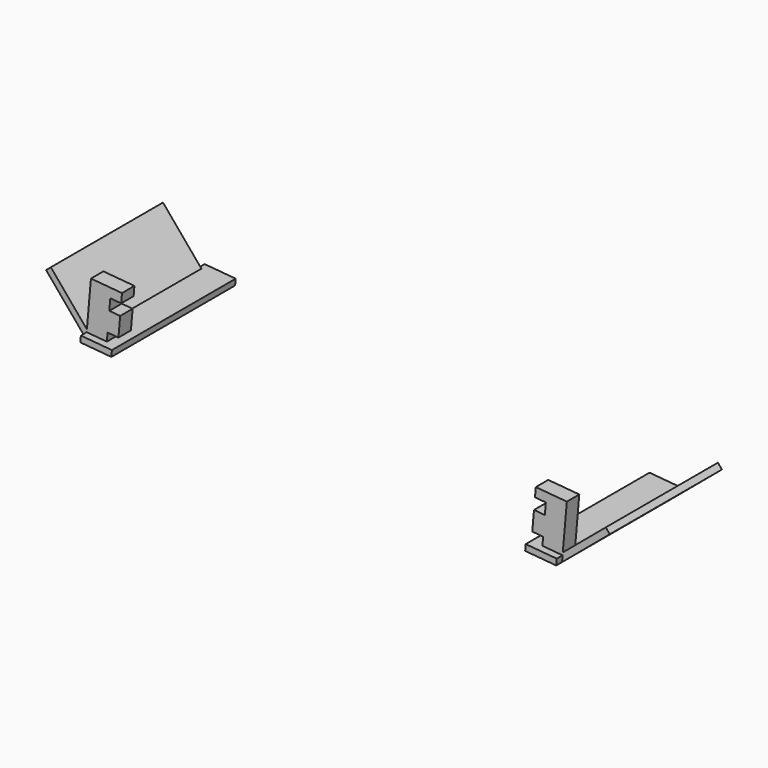
from build123d import *

# Parameters (mm, degrees)
BOX011_W                      = 6
BOX011_H                      = 13.5
BOX011_DEPTH                  = 0.6
BOX011_PLACEMENT_ANGLE        = 135
BOX013_W                      = 3
BOX013_H                      = 1.5
BOX013_DEPTH                  = 1.9
BOX014_W                      = 1.95
BOX014_H                      = 1.5
BOX014_DEPTH                  = 1.1
BOX015_W                      = 3
BOX015_H                      = 1.5
BOX015_DEPTH                  = 0.9
BOX012_W                      = 1.95
BOX012_H                      = 1.5
BOX012_DEPTH                  = 0.8
BOX010_W                      = 3
BOX010_H                      = 14.9
BOX010_DEPTH                  = 0.6
PART_MIRRORING002_PITCH_ANGLE = 5


with BuildPart() as boardsideoutline001:
    # Box011 → Box011 (new body)
    with BuildSketch(Plane.XY):
        with Locations((3, 6.75)):
            Rectangle(BOX011_W, BOX011_H)
    extrude(amount=BOX011_DEPTH)


with BuildPart() as boardsideoutline001_1:
    # Box011 placement: moved
    add(boardsideoutline001.part.moved(Location((-2, 0, 4.3))).rotate(Axis((-2, 0, 4.3), (0, 1, 0)), BOX011_PLACEMENT_ANGLE))


with BuildPart() as coverboardinnerholder006:
    # Box013 → Box013 (new body)
    with BuildSketch(Plane(origin=(-2, 0, 1), x_dir=(1, 0, 0), z_dir=(0, 0, 1))):
        with Locations((1.5, 0.75)):
            Rectangle(BOX013_W, BOX013_H)
    extrude(amount=BOX013_DEPTH)


with BuildPart() as coverboardinnerholder007:
    # Box014 → Box014 (new body)
    with BuildSketch(Plane(origin=(-2, 0, -0.1), x_dir=(1, 0, 0), z_dir=(0, 0, 1))):
        with Locations((0.975, 0.75)):
            Rectangle(BOX014_W, BOX014_H)
    extrude(amount=BOX014_DEPTH)


with BuildPart() as coverboardinnerholder008:
    # Box015 → Box015 (new body)
    with BuildSketch(Plane(origin=(-2, 0, -1), x_dir=(1, 0, 0), z_dir=(0, 0, 1))):
        with Locations((1.5, 0.75)):
            Rectangle(BOX015_W, BOX015_H)
    extrude(amount=BOX015_DEPTH)


with BuildPart() as boardinnerholder001:
    # Box012 → Box012 (new body)
    with BuildSketch(Plane(origin=(-2, 0, 2.9), x_dir=(1, 0, 0), z_dir=(0, 0, 1))):
        with Locations((0.975, 0.75)):
            Rectangle(BOX012_W, BOX012_H)
    extrude(amount=BOX012_DEPTH)

    # Fusion003: union coverBoardInnerHolder006, coverBoardInnerHolder007, coverBoardInnerHolder008
    add(coverboardinnerholder006.part)
    add(coverboardinnerholder007.part)
    add(coverboardinnerholder008.part)


with BuildPart() as obj1:
    # Box010 → Box010 (new body)
    with BuildSketch(Plane(origin=(-2, -0.7, 3.7), x_dir=(1, 0, 0), z_dir=(0, 0, 1))):
        with Locations((1.5, 7.45)):
            Rectangle(BOX010_W, BOX010_H)
    extrude(amount=BOX010_DEPTH)

    # Fusion005: union boardSideOutline001, boardInnerHolder001
    add(boardsideoutline001_1.part)
    add(boardinnerholder001.part)


with BuildPart() as part_mirroring001:
    # Part__Mirroring001: instance of obj1
    add(obj1.part.mirror(Plane(origin=(0, 0, 0), x_dir=(0, -1, 0), z_dir=(1, 0, 0))))


with BuildPart() as part_mirroring001_1:
    # Part__Mirroring001 placement: moved
    add(part_mirroring001.part.moved(Location((42, 0, 0))))


with BuildPart() as fusion004:
    # Fusion004 base: copy of obj1
    add(obj1.part)

    # Fusion004: union Part__Mirroring001
    add(part_mirroring001_1.part)


with BuildPart() as part_mirroring002:
    # Part__Mirroring002: instance of Fusion004
    add(fusion004.part.mirror(Plane(origin=(0, 0, 0), x_dir=(0, 1, 0), z_dir=(0, 0, 1))))


with BuildPart() as part_mirroring002_1:
    # Part__Mirroring002 pitch: moved
    add(part_mirroring002.part.rotate(Axis((0, 0, 0), (0, 1, 0)), PART_MIRRORING002_PITCH_ANGLE))


with BuildPart() as part_mirroring002_2:
    # Part__Mirroring002 placement: moved
    add(part_mirroring002_1.part.moved(Location((0, 0, 2))))


solid = part_mirroring002_2.part
